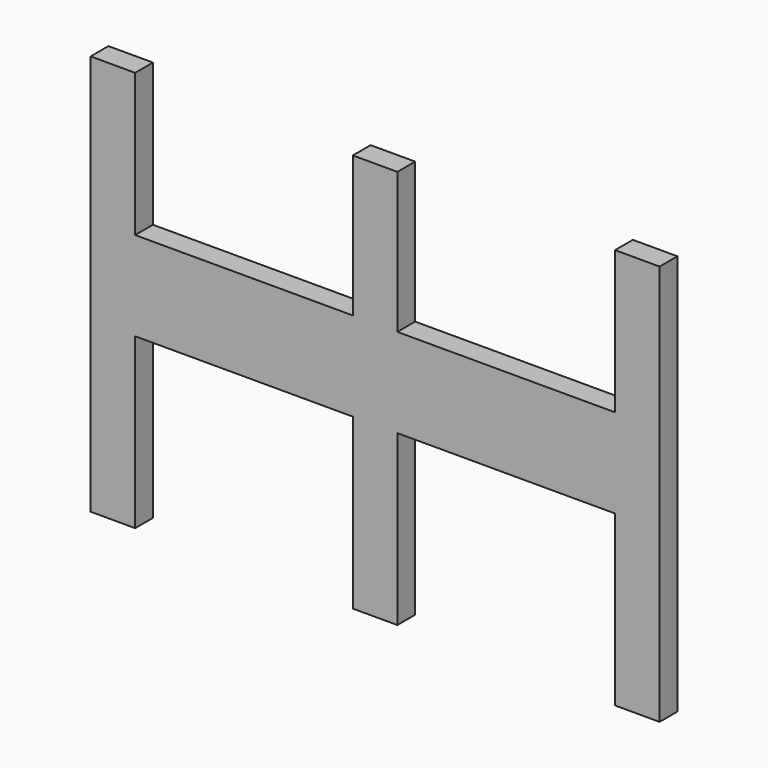
from build123d import *

# Parameters (mm, degrees)
F1_DEPTH = 10


with BuildPart() as f1:
    # F0 (on Front) → F1 (new body)
    with BuildSketch(Plane.XZ):
        Polygon((0, 90), (0, 0), (20, 0), (20, 30), (20, 75.879364), (117.741286, 75.879364), (117.741286, 0), (137.741286, 0), (137.741286, 75.879364), (235.482572, 75.879364), (235.482572, 30), (235.482572, 0), (255.482572, 0), (255.482572, 180), (235.482572, 180), (235.482572, 115.879364), (137.741286, 115.879364), (137.741286, 179.137096), (127.741286, 179.137096), (117.741286, 179.137096), (117.741286, 115.879364), (20, 115.879364), (20, 180), (0, 180), (0, 115.879364), align=None)
    extrude(amount=F1_DEPTH)


solid = f1.part
